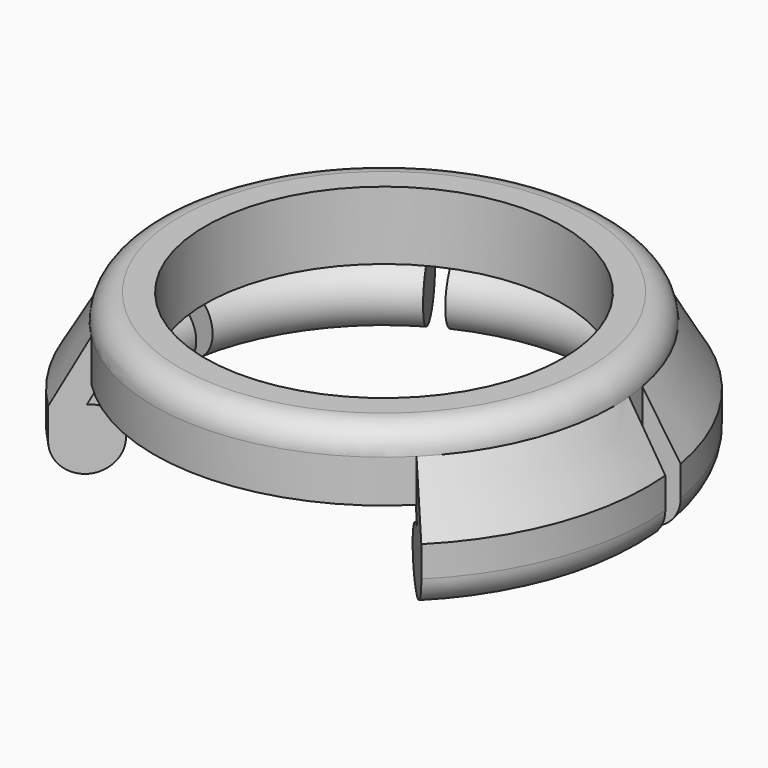
from build123d import *

# Parameters (mm, degrees)
SKETCH012_R         = 6.75
SKETCH012_R_2       = 5.25
PAD005_DEPTH        = 2
FILLET_R            = 0.75
REVOLUTION002_ANGLE = -50
POLARPATTERN_COUNT  = 5
POLARPATTERN_ANGLE  = 220


with BuildPart() as part:
    # Sketch012 → Pad005 (new body)
    with BuildSketch(Plane.XY):
        Circle(SKETCH012_R)
        Circle(SKETCH012_R_2, mode=Mode.SUBTRACT)
    extrude(amount=PAD005_DEPTH)

    # Fillet
    fillet_edges = [part.edges().sort_by_distance(p)[0] for p in [
        (-6.75, 0, 2),
    ]]
    fillet(fillet_edges, radius=FILLET_R)

    # Sketch013 → Revolution002 (revolve)
    with BuildSketch(Plane(origin=(0, 0, 0), x_dir=(-0.7071067812, -0.7071067812, 0), z_dir=(-0.7071067812, 0.7071067812, 0))):
        with BuildLine():
            Line((7.75, -1.400000012), (7.75, -0.5))
            Line((7.75, -0.5), (6.75, 1.25))
            Line((6.75, 1.25), (6.5642857143, 0))
            Line((6.5642857143, 0), (6.85, -0.5))
            ThreePointArc((6.85, -0.5), (6.2136038927, -2.0363960988), (7.75, -1.400000012))
        make_face()
    revolution002 = revolve(axis=Axis((0, 0, 0), (0, 0, 1)), revolution_arc=REVOLUTION002_ANGLE)

    # PolarPattern: Revolution002 ×5 about axis
    polarpattern_axis = Axis((0, 0, 0), (0, 0, -1))
    for i in range(1, POLARPATTERN_COUNT):
        add(revolution002.rotate(polarpattern_axis, i * POLARPATTERN_ANGLE / (POLARPATTERN_COUNT - 1)))


with BuildPart() as part_1:
    # Body004 placement: moved
    add(part.part.moved(Location((0, 0, 3))))


solid = part_1.part
